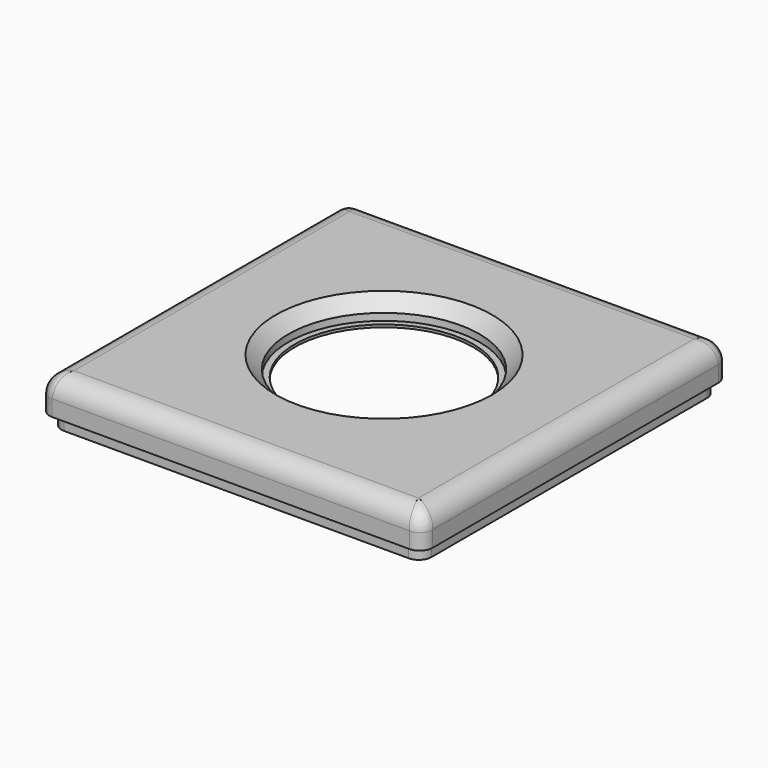
from build123d import *

# Parameters (mm, degrees)
SKETCH_W        = 60
SKETCH_H        = 60
PAD_DEPTH       = 7.5
FILLET_R        = 3
SKETCH001_R     = 14.962444
POCKET_DEPTH    = 3.1
CHAMFER_SIZE    = 2
SKETCH002_R     = 14.000834
POCKET001_DEPTH = 2
FILLET001_R     = 2
SKETCH003_W     = 56.043682
SKETCH003_H     = 55.967268
SKETCH003_R     = 18
POCKET002_DEPTH = 6.5
FILLET002_R     = 1
SKETCH004_R     = 18
POCKET003_DEPTH = 4
CHAMFER001_SIZE = 2
SKETCH005_W     = 60
SKETCH005_H     = 60
SKETCH005_W_2   = 58
SKETCH005_H_2   = 57.953869
POCKET004_DEPTH = 2
FILLET003_R     = 2


with BuildPart() as part:
    # Sketch → Pad (new body)
    with BuildSketch(Plane.XY):
        Rectangle(SKETCH_W, SKETCH_H)
    extrude(amount=PAD_DEPTH)

    # Fillet
    fillet_edges = [part.edges().sort_by_distance(p)[0] for p in [
        (30, 0, 7.5),
        (0, 30, 7.5),
        (-30, 0, 7.5),
        (0, -30, 7.5),
    ]]
    fillet(fillet_edges, radius=FILLET_R)

    # Sketch001 → Pocket (cut)
    with BuildSketch(Plane.XY.offset(7.5)):
        Circle(SKETCH001_R)
    extrude(amount=-POCKET_DEPTH, mode=Mode.SUBTRACT)

    # Chamfer
    chamfer_edges = [part.edges().sort_by_distance(p)[0] for p in [
        (-14.962444, 0, 7.5),
    ]]
    chamfer(chamfer_edges, length=CHAMFER_SIZE)

    # Sketch002 → Pocket001 (cut)
    with BuildSketch(Plane.XY.offset(4.4)):
        Circle(SKETCH002_R)
    extrude(amount=-POCKET001_DEPTH, mode=Mode.SUBTRACT)

    # Fillet001
    fillet001_edges = [part.edges().sort_by_distance(p)[0] for p in [
        (-30, -30, 2.25),
        (30, -30, 2.25),
        (30, 30, 2.25),
        (-30, 30, 2.25),
    ]]
    fillet(fillet001_edges, radius=FILLET001_R)

    # Sketch003 → Pocket002 (cut)
    with BuildSketch(Plane(origin=(0, 0, 0), x_dir=(1, 0, 0), z_dir=(0, 0, -1))):
        with Locations((-0.022306, 0.060517)):
            Rectangle(SKETCH003_W, SKETCH003_H)
        Circle(SKETCH003_R, mode=Mode.SUBTRACT)
    extrude(amount=-POCKET002_DEPTH, mode=Mode.SUBTRACT)

    # Fillet002
    fillet002_edges = [part.edges().sort_by_distance(p)[0] for p in [
        (27.999535, 27.923117, 3.25),
        (-28.044147, 27.923117, 3.25),
        (-28.044147, -28.044151, 3.25),
        (27.999535, -28.044151, 3.25),
    ]]
    fillet(fillet002_edges, radius=FILLET002_R)

    # Sketch004 → Pocket003 (cut)
    with BuildSketch(Plane(origin=(0, 0, 0), x_dir=(1, 0, 0), z_dir=(0, 0, -1))):
        Circle(SKETCH004_R)
    extrude(amount=-POCKET003_DEPTH, mode=Mode.SUBTRACT)

    # Chamfer001
    chamfer001_edges = [part.edges().sort_by_distance(p)[0] for p in [
        (-18, 0, 4),
    ]]
    chamfer(chamfer001_edges, length=CHAMFER001_SIZE)

    # Sketch005 → Pocket004 (cut)
    with BuildSketch(Plane(origin=(0, 0, 0), x_dir=(1, 0, 0), z_dir=(0, 0, -1))):
        Rectangle(SKETCH005_W, SKETCH005_H)
        with Locations((0.034769, -0.002889)):
            Rectangle(SKETCH005_W_2, SKETCH005_H_2, mode=Mode.SUBTRACT)
    extrude(amount=-POCKET004_DEPTH, mode=Mode.SUBTRACT)

    # Fillet003
    fillet003_edges = [part.edges().sort_by_distance(p)[0] for p in [
        (-28.965231, 28.979824, 1),
        (-28.965231, -28.974045, 1),
        (29.034769, -28.974045, 1),
        (29.034769, 28.979824, 1),
    ]]
    fillet(fillet003_edges, radius=FILLET003_R)


solid = part.part
